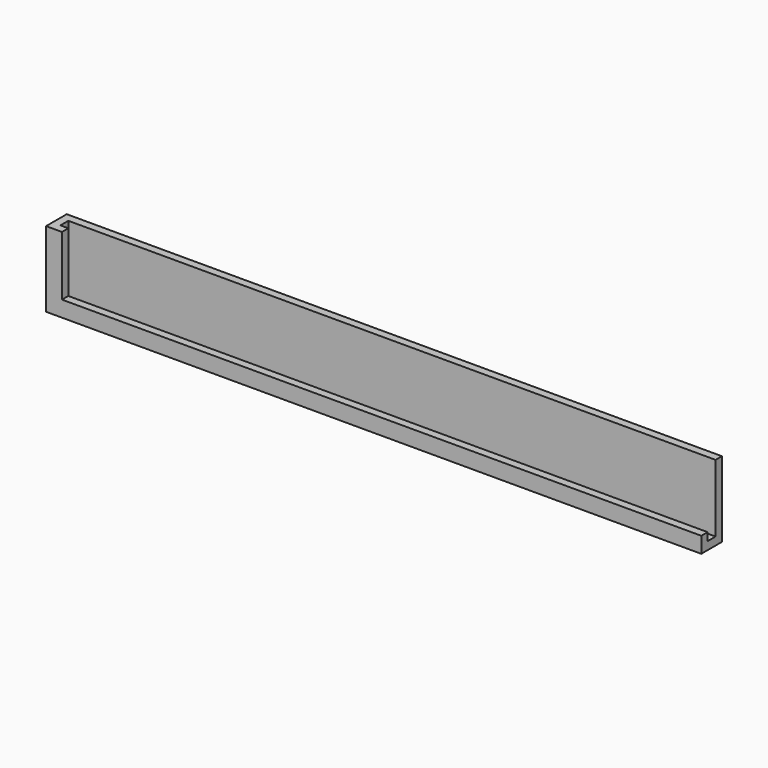
from build123d import *

# Parameters (mm, degrees)
BOX002_W                       = 161
BOX002_H                       = 2
BOX002_DEPTH                   = 15
BOX001_W                       = 163
BOX001_H                       = 2.5
BOX001_DEPTH                   = 17
BOX_W                          = 165
BOX_H                          = 6.5
BOX_DEPTH                      = 19
PART_MIRRORING_PLACEMENT_ANGLE = 180


with BuildPart() as cube002:
    # Box002 → Box002 (new body)
    with BuildSketch(Plane.XY.offset(4)):
        with Locations((80.5, 1)):
            Rectangle(BOX002_W, BOX002_H)
    extrude(amount=BOX002_DEPTH)


with BuildPart() as cube001:
    # Box001 → Box001 (new body)
    with BuildSketch(Plane(origin=(0, 2, 2), x_dir=(1, 0, 0), z_dir=(0, 0, 1))):
        with Locations((81.5, 1.25)):
            Rectangle(BOX001_W, BOX001_H)
    extrude(amount=BOX001_DEPTH)


with BuildPart() as cut001:
    # Box → Box (new body)
    with BuildSketch(Plane.XY):
        with Locations((82.5, 3.25)):
            Rectangle(BOX_W, BOX_H)
    extrude(amount=BOX_DEPTH)

    # Cut: cut Cube001
    add(cube001.part, mode=Mode.SUBTRACT)

    # Cut001: cut Cube002
    add(cube002.part, mode=Mode.SUBTRACT)


with BuildPart() as part_mirroring:
    # Part__Mirroring: instance of Cut001
    add(cut001.part.mirror(Plane(origin=(0, 0, 0), x_dir=(0, 1, 0), z_dir=(0, 0, 1))))


with BuildPart() as part_mirroring_1:
    # Part__Mirroring placement: moved
    add(part_mirroring.part.rotate(Axis((0, 0, 0), (0, 1, 0)), PART_MIRRORING_PLACEMENT_ANGLE))


solid = part_mirroring_1.part
